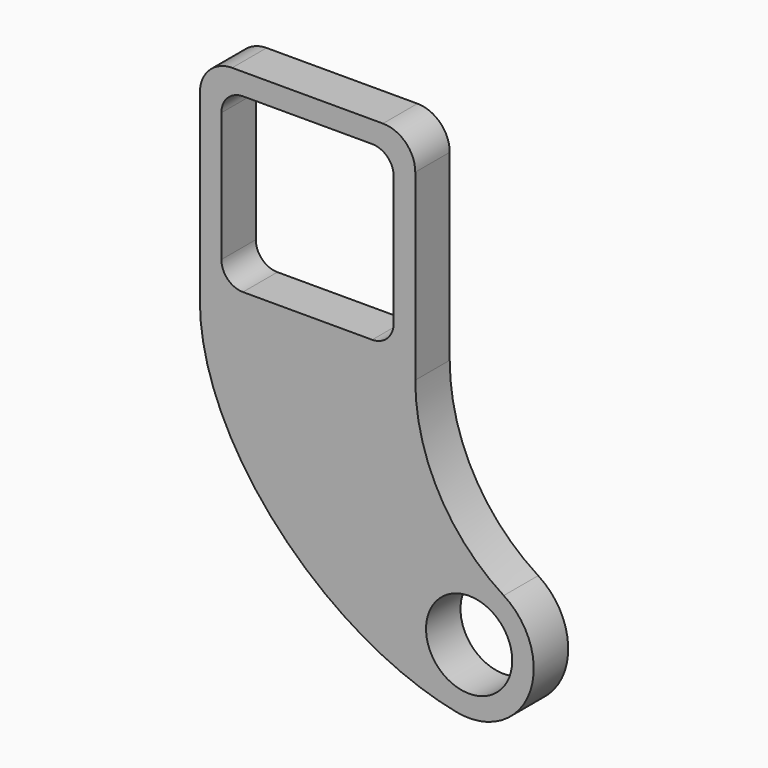
from build123d import *

# Parameters (mm, degrees)
F0_R     = 25.4
F1_DEPTH = 25.4


with BuildPart() as f1:
    # F0 (on Front) → F1 (new body)
    with BuildSketch(Plane.XZ):
        with BuildLine():
            Line((107.95, 0), (19.05, 0))
            ThreePointArc((19.05, 0), (5.579616, -5.579616), (0, -19.05))
            Line((0, -19.05), (0, -127))
            add(Edge.make_bspline(
                [(0, -127), (0, -200.66), (75.077975, -276.120124), (151.277975, -291.360124)],
                knots=[0, 0, 0, 0, 223.381459, 223.381459, 223.381459, 223.381459], degree=3))
            ThreePointArc((151.277975, -291.360124), (194.114391, -268.176383), (179.152879, -221.823417))
            ThreePointArc((179.152879, -221.823417), (140.898422, -181.109618), (127, -127))
            Line((127, -127), (127, -19.05))
            ThreePointArc((127, -19.05), (121.420384, -5.579616), (107.95, 0))
        make_face()
        with Locations((158.75, -254)):
            Circle(F0_R, mode=Mode.SUBTRACT)
        with BuildLine():
            Line((101.6, -114.3), (25.4, -114.3))
            ThreePointArc((25.4, -114.3), (16.419744, -110.580256), (12.7, -101.6))
            Line((12.7, -101.6), (12.7, -25.4))
            ThreePointArc((12.7, -25.4), (16.419744, -16.419744), (25.4, -12.7))
            Line((25.4, -12.7), (101.6, -12.7))
            ThreePointArc((101.6, -12.7), (110.580256, -16.419744), (114.3, -25.4))
            Line((114.3, -25.4), (114.3, -101.6))
            ThreePointArc((114.3, -101.6), (110.580256, -110.580256), (101.6, -114.3))
        make_face(mode=Mode.SUBTRACT)
    extrude(amount=F1_DEPTH)


solid = f1.part
